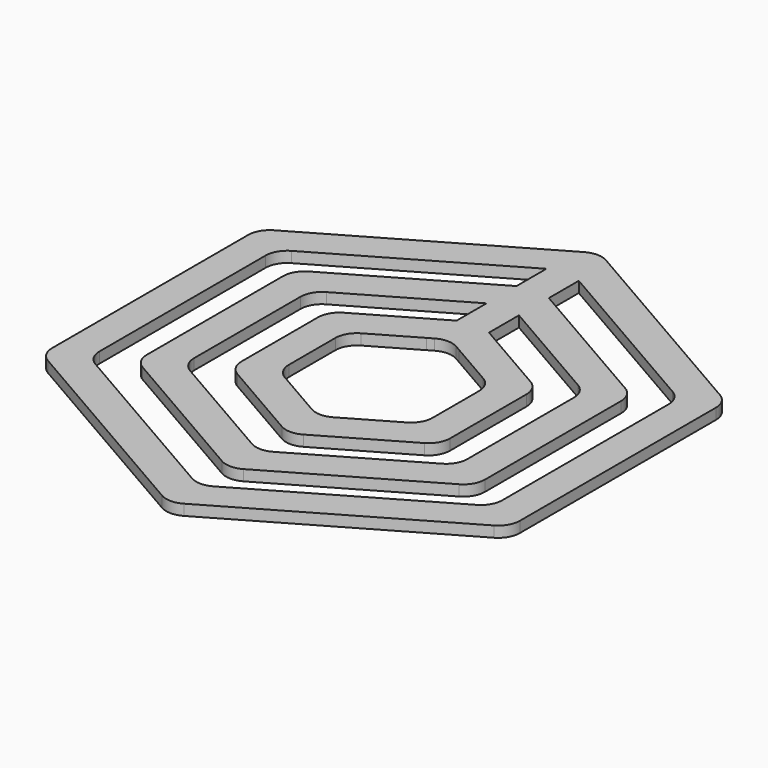
from build123d import *

# Parameters (mm, degrees)
F1_DEPTH = 1
F2_R     = 2


with BuildPart() as f1:
    # F0 (on Top) → F1 (new body)
    with BuildSketch(Plane.XY):
        Polygon((21.650635, -12.5), (21.650635, 12.5), (1.5, 24.133975), (0, 25), (-1.5, 24.133975), (-21.650635, 12.5), (-21.650635, -12.5), (0, -25), align=None)
        Polygon((0, -14.607695), (-12.650635, -7.303848), (-12.650635, 7.303848), (-1.5, 13.74167), (-1.5, 10.277568), (-9.650635, 5.571797), (-9.650635, -5.571797), (0, -11.143594), (9.650635, -5.571797), (9.650635, 5.571797), (1.5, 10.277568), (1.5, 13.74167), (12.650635, 7.303848), (12.650635, -7.303848), align=None, mode=Mode.SUBTRACT)
        Polygon((0, -21.535898), (-18.650635, -10.767949), (-18.650635, 10.767949), (-1.5, 20.669873), (-1.5, 17.205771), (-15.650635, 9.035898), (-15.650635, -9.035898), (0, -18.071797), (15.650635, -9.035898), (15.650635, 9.035898), (9, 12.875644), (1.5, 17.205771), (1.5, 20.669873), (18.650635, 10.767949), (18.650635, -10.767949), align=None, mode=Mode.SUBTRACT)
        Polygon((0, -7.679492), (-6.650635, -3.839746), (-6.650635, 3.839746), (-1.5, 6.813467), (0, 7.679492), (1.5, 6.813467), (6.650635, 3.839746), (6.650635, -3.839746), align=None, mode=Mode.SUBTRACT)
    extrude(amount=F1_DEPTH)

    # F2
    f2_edges = [f1.edges().sort_by_distance(p)[0] for p in [
        (0, 25, 0.5),
        (-21.650635, 12.5, 0.5),
        (-21.650635, -12.5, 0.5),
        (21.650635, 12.5, 0.5),
        (21.650635, -12.5, 0.5),
        (0, -25, 0.5),
        (-18.650635, -10.767949, 0.5),
        (-18.650635, 10.767949, 0.5),
        (18.650635, 10.767949, 0.5),
        (18.650635, -10.767949, 0.5),
        (0, -21.535898, 0.5),
        (0, -14.607695, 0.5),
        (-15.650635, -9.035898, 0.5),
        (-15.650635, 9.035898, 0.5),
        (-9.650635, 5.571797, 0.5),
        (-9.650635, -5.571797, 0.5),
        (0, -11.143594, 0.5),
        (9.650635, -5.571797, 0.5),
        (9.650635, 5.571797, 0.5),
        (12.650635, 7.303848, 0.5),
        (-12.650635, -7.303848, 0.5),
        (-6.650635, 3.839746, 0.5),
        (-6.650635, -3.839746, 0.5),
        (-12.650635, 7.303848, 0.5),
        (0, 7.679492, 0.5),
        (6.650635, 3.839746, 0.5),
        (6.650635, -3.839746, 0.5),
        (0, -7.679492, 0.5),
        (12.650635, -7.303848, 0.5),
        (15.650635, -9.035898, 0.5),
        (0, -18.071797, 0.5),
        (15.650635, 9.035898, 0.5),
    ]]
    fillet(f2_edges, radius=F2_R)


solid = f1.part
